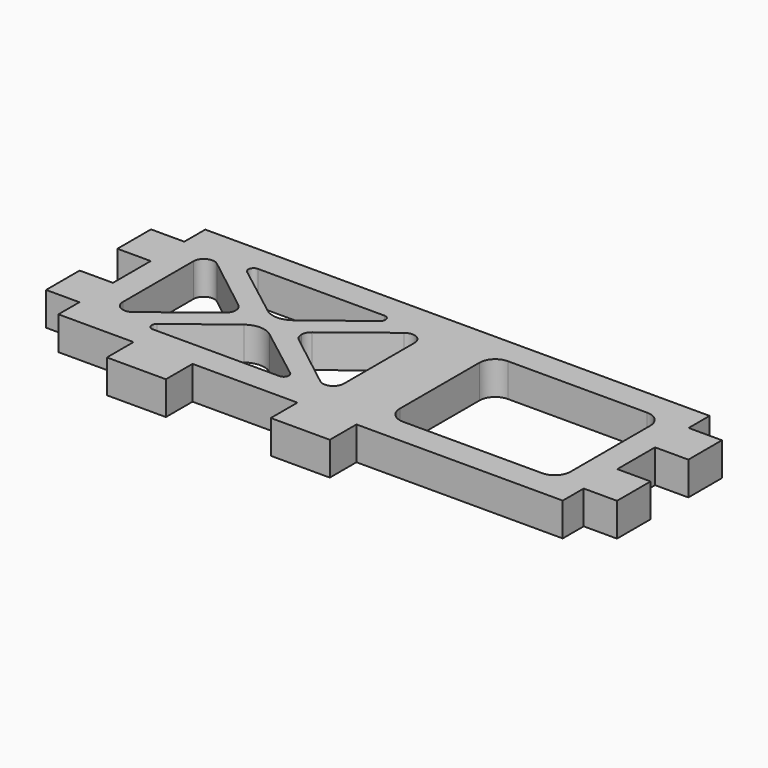
from build123d import *

# Parameters (mm, degrees)
F0_W     = 6.35
F0_H     = 8
F0_W_2   = 11.25
F0_H_2   = 6.35
F1_DEPTH = 6.35


with BuildPart() as f1:
    # F0 (on Top) → F1 (new body)
    with BuildSketch(Plane.XY):
        Polygon((48.075, 17.5), (-48.075, 17.5), (-48.075, 12.5), (-48.075, 4.5), (-48.075, -4.5), (-48.075, -12.5), (-48.075, -17.5), (-33.75, -17.5), (-22.5, -17.5), (-2.5, -17.5), (8.75, -17.5), (48.075, -17.5), (48.075, -12.5), (48.075, -4.5), (48.075, 4.5), (48.075, 12.5), align=None)
        with BuildLine():
            ThreePointArc((-34.056463, -12.5), (-35.003315, -11.821671), (-34.665613, -10.706945))
            Line((-34.665613, -10.706945), (-24.4366, -2.849984))
            ThreePointArc((-24.4366, -2.849984), (-22, -2.022204), (-19.5634, -2.849984))
            Line((-19.5634, -2.849984), (-9.334387, -10.706945))
            ThreePointArc((-9.334387, -10.706945), (-8.996685, -11.821671), (-9.943537, -12.5))
            Line((-9.943537, -12.5), (-34.056463, -12.5))
        make_face(mode=Mode.SUBTRACT)
        with BuildLine():
            Line((-43.075, -8.411769), (-43.075, 0))
            Line((-43.075, 0), (-43.075, 8.411769))
            ThreePointArc((-43.075, 8.411769), (-41.953885, 10.208311), (-39.847438, 9.990722))
            Line((-39.847438, 9.990722), (-29.027791, 1.578953))
            ThreePointArc((-29.027791, 1.578953), (-28.458811, 0.878885), (-28.255353, 0))
            ThreePointArc((-28.255353, 0), (-28.458811, -0.878885), (-29.027791, -1.578953))
            Line((-29.027791, -1.578953), (-39.847438, -9.990722))
            ThreePointArc((-39.847438, -9.990722), (-41.953885, -10.208311), (-43.075, -8.411769))
        make_face(mode=Mode.SUBTRACT)
        with BuildLine():
            Line((-4.152562, -9.990722), (-14.972209, -1.578953))
            ThreePointArc((-14.972209, -1.578953), (-15.541189, -0.878885), (-15.744647, 0))
            ThreePointArc((-15.744647, 0), (-15.541189, 0.878885), (-14.972209, 1.578953))
            Line((-14.972209, 1.578953), (-4.152562, 9.990722))
            ThreePointArc((-4.152562, 9.990722), (-2.046115, 10.208311), (-0.925, 8.411769))
            Line((-0.925, 8.411769), (-0.925, 0))
            Line((-0.925, 0), (-0.925, -8.411769))
            ThreePointArc((-0.925, -8.411769), (-2.046115, -10.208311), (-4.152562, -9.990722))
        make_face(mode=Mode.SUBTRACT)
        with BuildLine():
            Line((-24.4366, 2.849984), (-34.665613, 10.706945))
            ThreePointArc((-34.665613, 10.706945), (-35.003315, 11.821671), (-34.056463, 12.5))
            Line((-34.056463, 12.5), (-9.943537, 12.5))
            ThreePointArc((-9.943537, 12.5), (-8.996685, 11.821671), (-9.334387, 10.706945))
            Line((-9.334387, 10.706945), (-19.5634, 2.849984))
            ThreePointArc((-19.5634, 2.849984), (-22, 2.022204), (-24.4366, 2.849984))
        make_face(mode=Mode.SUBTRACT)
        with BuildLine():
            Line((13.609899, 12.5), (40.160611, 12.5))
            ThreePointArc((40.160611, 12.5), (42.281931, 11.62132), (43.160611, 9.5))
            Line((43.160611, 9.5), (43.160611, -9.5))
            ThreePointArc((43.160611, -9.5), (42.281931, -11.62132), (40.160611, -12.5))
            Line((40.160611, -12.5), (13.609899, -12.5))
            ThreePointArc((13.609899, -12.5), (11.488578, -11.62132), (10.609899, -9.5))
            Line((10.609899, -9.5), (10.609899, 9.5))
            ThreePointArc((10.609899, 9.5), (11.488578, 11.62132), (13.609899, 12.5))
        make_face(mode=Mode.SUBTRACT)
        with Locations((-51.25, 8.5)):
            Rectangle(F0_W, F0_H)
        with Locations((-51.25, -8.5)):
            Rectangle(F0_W, F0_H)
        with Locations((-28.125, -20.675)):
            Rectangle(F0_W_2, F0_H_2)
        with Locations((3.125, -20.675)):
            Rectangle(F0_W_2, F0_H_2)
        with Locations((51.25, -8.5)):
            Rectangle(F0_W, F0_H)
        with Locations((51.25, 8.5)):
            Rectangle(F0_W, F0_H)
    extrude(amount=F1_DEPTH)


solid = f1.part
